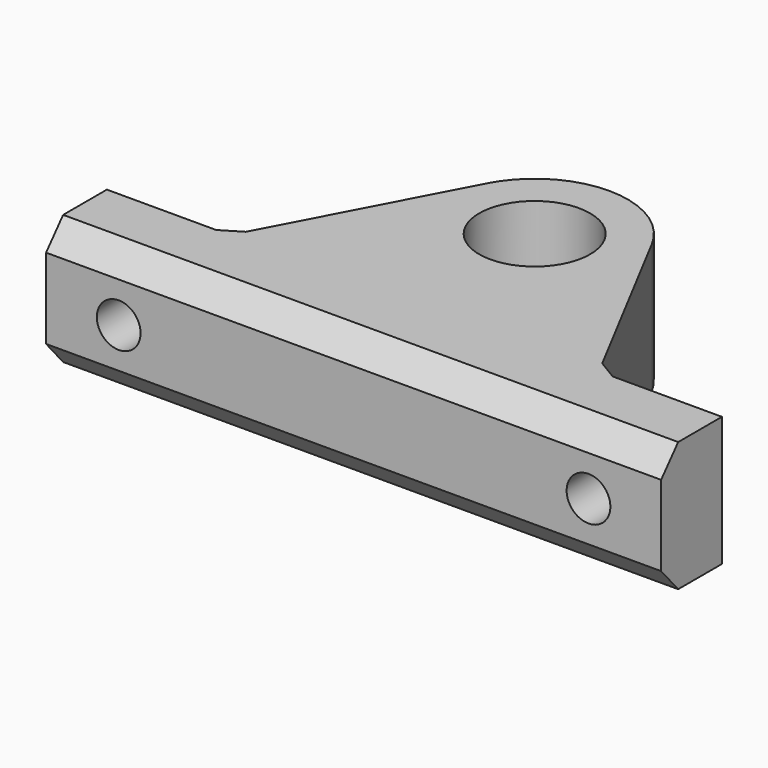
from build123d import *

# Parameters (mm, degrees)
SKETCH_R     = 4.06
PAD_DEPTH    = 9.48
PAD001_DEPTH = 45
SKETCH002_R  = 1.6
POCKET_DEPTH = 23.37485
CHAMFER_SIZE = 1


with BuildPart() as part:
    # Sketch → Pad (new body)
    with BuildSketch(Plane.XY):
        with BuildLine():
            ThreePointArc((6.02785, 14.177039), (0, 17.81385), (-6.02785, 14.177039))
            Line((-6.02785, 14.177039), (-13.5, 0))
            Line((-13.5, 0), (-22.5, 0))
            Line((-22.5, 0), (-22.5, -4))
            Line((-22.5, -4), (22.5, -4))
            Line((22.5, -4), (22.5, 0))
            Line((22.5, 0), (13.5, 0))
            Line((6.02785, 14.177039), (13.5, 0))
        make_face()
        with Locations((0, 11)):
            Circle(SKETCH_R, mode=Mode.SUBTRACT)
    extrude(amount=PAD_DEPTH)

    # Sketch001 (on Face4 of Pad) → Pad001 (join)
    with BuildSketch(Plane(origin=(-22.5, 0, 0), x_dir=(0, -1, 0), z_dir=(-1, 0, 0))):
        Polygon((4, 9.48), (4, 0), (5.56, 1.8), (5.56, 7.68), align=None)
    extrude(amount=-PAD001_DEPTH)

    # Sketch002 (on Face14 of Pad001) → Pocket (cut, through all)
    with BuildSketch(Plane.XZ.offset(5.56)):
        with Locations((-17.186, 4.74)):
            Circle(SKETCH002_R)
        with Locations((17.186, 4.74)):
            Circle(SKETCH002_R)
    extrude(amount=-POCKET_DEPTH, mode=Mode.SUBTRACT)

    # Chamfer
    chamfer_edges = [part.edges().sort_by_distance(p)[0] for p in [
        (13.5, 0, 4.74),
        (-13.5, 0, 4.74),
    ]]
    chamfer(chamfer_edges, length=CHAMFER_SIZE)


solid = part.part
